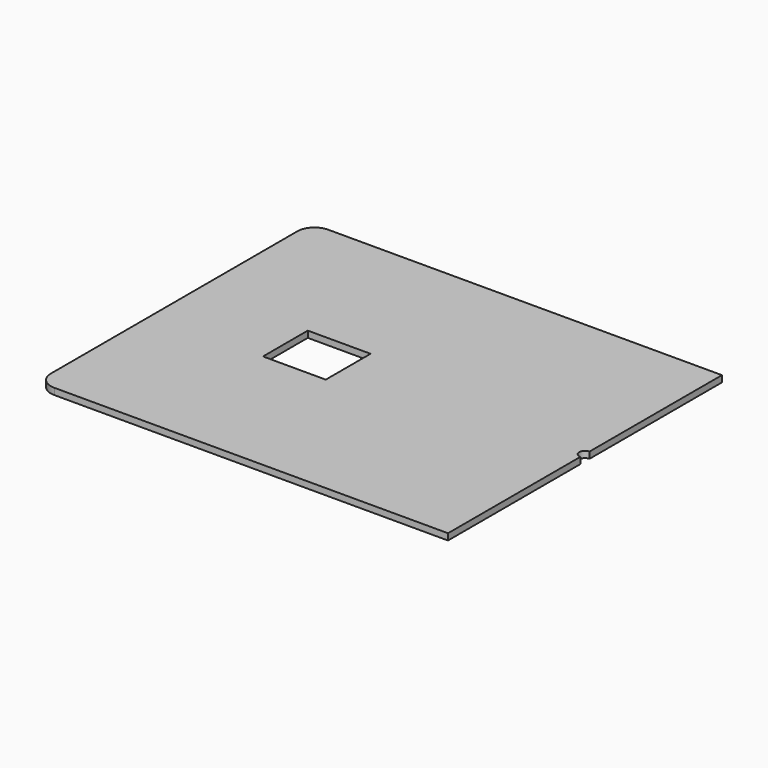
from build123d import *

# Parameters (mm, degrees)
F1_DEPTH = 28.575
F3_DEPTH = 28.575


with BuildPart() as f1:
    # F0 (on Top) → F1 (new body)
    with BuildSketch(Plane.XY):
        with BuildLine():
            Line((914.4, -762), (914.4, 762))
            Line((914.4, 762), (-838.2, 762))
            ThreePointArc((-838.2, 762), (-892.081537, 739.681537), (-914.4, 685.8))
            Line((-914.4, 685.8), (-914.4, -685.8))
            ThreePointArc((-914.4, -685.8), (-892.081537, -739.681537), (-838.2, -762))
            Line((-838.2, -762), (914.4, -762))
        make_face()
    extrude(amount=F1_DEPTH)

    # F2 (on face) → F3 (cut)
    with BuildSketch(Plane.XY.offset(28.575)):
        Polygon((-139.7, 0), (-139.7, 124.587), (-419.1, 124.587), (-419.1, -124.587), (-139.7, -124.587), align=None)
        with BuildLine():
            Line((914.4, -25.4), (914.4, 25.4))
            ThreePointArc((914.4, 25.4), (889, 0), (914.4, -25.4))
        make_face()
    extrude(amount=-F3_DEPTH, mode=Mode.SUBTRACT)


solid = f1.part
